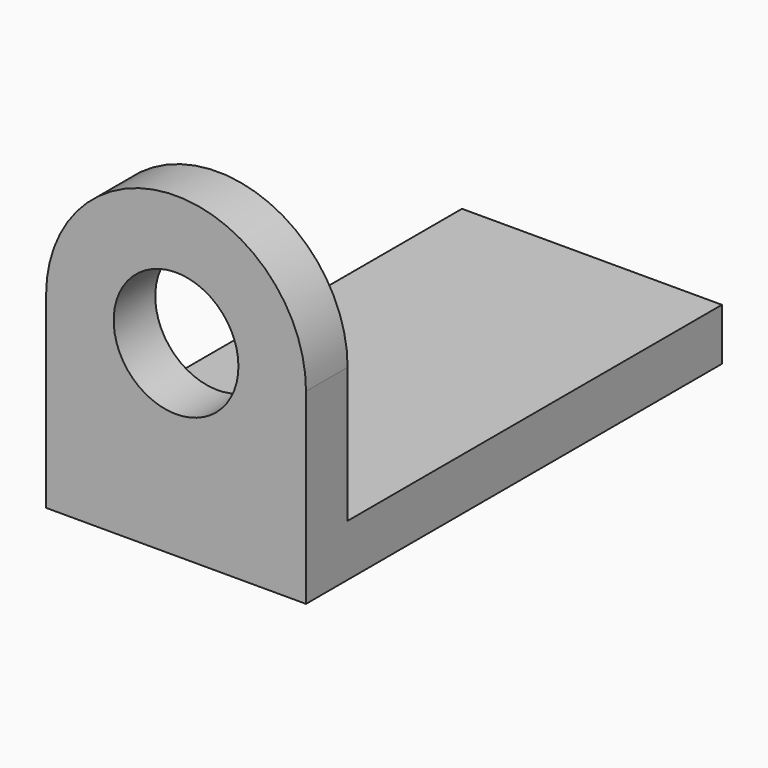
from build123d import *

# Parameters (mm, degrees)
SKETCH_W     = 25
SKETCH_H     = 50
PAD_DEPTH    = 5
SKETCH001_R  = 6
PAD001_DEPTH = 5


with BuildPart() as part:
    # Sketch → Pad (new body)
    with BuildSketch(Plane.XY):
        with Locations((12.5, 25)):
            Rectangle(SKETCH_W, SKETCH_H)
    extrude(amount=PAD_DEPTH)

    # Sketch001 (on Face1 of Pad) → Pad001 (join)
    with BuildSketch(Plane.XZ):
        with BuildLine():
            Line((0, 0), (0, 18))
            ThreePointArc((25, 18), (12.5, 30.5), (0, 18))
            Line((25, 0), (25, 18))
            Line((0, 0), (25, 0))
        make_face()
        with Locations((12.5, 18)):
            Circle(SKETCH001_R, mode=Mode.SUBTRACT)
    extrude(amount=-PAD001_DEPTH)


solid = part.part
